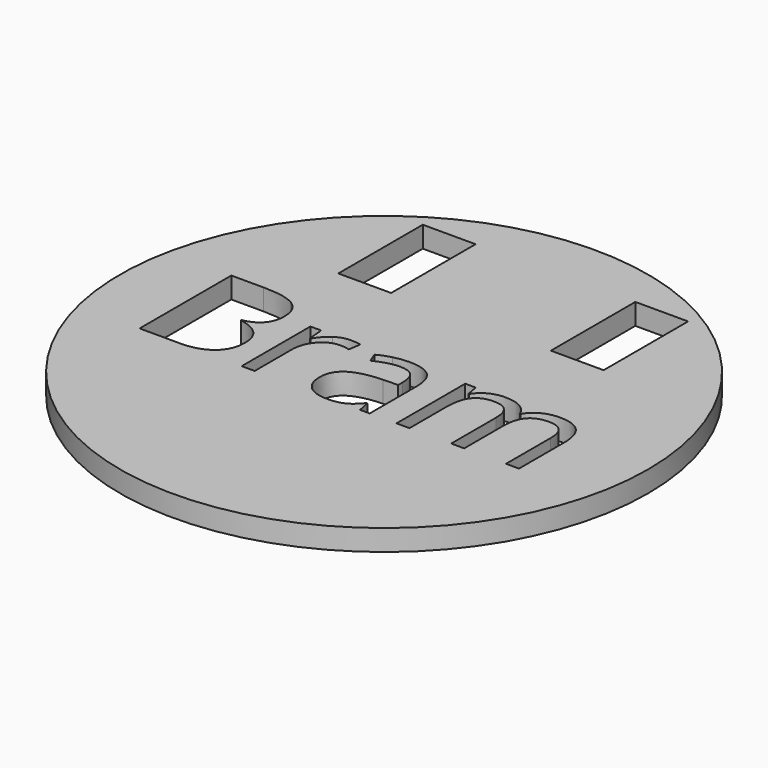
from build123d import *

# Parameters (mm, degrees)
F0_R     = 25
F0_W     = 5
F0_H     = 10
F1_DEPTH = 2


with BuildPart() as f1:
    # F0 (on Top) → F1 (new body)
    with BuildSketch(Plane.XY):
        Circle(F0_R)
        with BuildLine():
            Line((-18.475540486, -5.8509828523), (-18.475540486, 5.0045425299))
            Line((-18.475540486, 5.0045425299), (-15.4082427691, 5.0045425299))
            add(Edge.make_bspline(
                [(-15.4082427691, 5.0045425299), (-13.2485420529, 5.0045425299), (-12.2827352969, 4.3582954509)],
                knots=[0, 0, 0, 1, 1, 1], degree=2))
            add(Edge.make_bspline(
                [(-12.2827352969, 4.3582954509), (-11.316928541, 3.7120483719), (-11.316928541, 2.3173901536)],
                knots=[0, 0, 0, 1, 1, 1], degree=2))
            add(Edge.make_bspline(
                [(-11.316928541, 2.3173901536), (-11.316928541, 1.3503954435), (-11.8550717888, 0.7231556315)],
                knots=[0, 0, 0, 1, 1, 1], degree=2))
            add(Edge.make_bspline(
                [(-11.8550717888, 0.7231556315), (-12.3932150366, 0.0959158196), (-13.4267351813, -0.089405034)],
                knots=[0, 0, 0, 1, 1, 1], degree=2))
            Line((-13.4267351813, -0.089405034), (-13.4267351813, -0.1630581937))
            add(Edge.make_bspline(
                [(-13.4267351813, -0.1630581937), (-10.9534145591, -0.5859698851), (-10.9534145591, -2.76230196)],
                knots=[0, 0, 0, 1, 1, 1], degree=2))
            add(Edge.make_bspline(
                [(-10.9534145591, -2.76230196), (-10.9534145591, -4.2163578877), (-11.9370406278, -5.03367037)],
                knots=[0, 0, 0, 1, 1, 1], degree=2))
            add(Edge.make_bspline(
                [(-11.9370406278, -5.03367037), (-12.9206666966, -5.8509828523), (-14.6883425304, -5.8509828523)],
                knots=[0, 0, 0, 1, 1, 1], degree=2))
            Line((-14.6883425304, -5.8509828523), (-18.475540486, -5.8509828523))
        make_face(mode=Mode.SUBTRACT)
        with BuildLine():
            add(Edge.make_bspline(
                [(-6.4985863491, 2.0049582018), (-5.8594669952, 2.4361855726), (-5.0944244973, 2.4361855726)],
                knots=[0, 0, 0, 1, 1, 1], degree=2))
            add(Edge.make_bspline(
                [(-5.0944244973, 2.4361855726), (-4.5527173869, 2.4361855726), (-4.1226779704, 2.3459010542)],
                knots=[0, 0, 0, 1, 1, 1], degree=2))
            Line((-4.1226779704, 2.3459010542), (-4.2937433736, 1.203089124))
            add(Edge.make_bspline(
                [(-4.2937433736, 1.203089124), (-4.7974359499, 1.3147568178), (-5.1847090156, 1.3147568178)],
                knots=[0, 0, 0, 1, 1, 1], degree=2))
            add(Edge.make_bspline(
                [(-5.1847090156, 1.3147568178), (-6.1730869012, 1.3147568178), (-6.8739798729, 0.51288774)],
                knots=[0, 0, 0, 1, 1, 1], degree=2))
            add(Edge.make_bspline(
                [(-6.8739798729, 0.51288774), (-7.5748728446, -0.2889813378), (-7.5748728446, -1.4840632523)],
                knots=[0, 0, 0, 1, 1, 1], degree=2))
            Line((-7.5748728446, -1.4840632523), (-7.5748728446, -5.8509828523))
            Line((-7.5748728446, -5.8509828523), (-8.8079692931, -5.8509828523))
            Line((-8.8079692931, -5.8509828523), (-8.8079692931, 2.2865033447))
            Line((-8.8079692931, 2.2865033447), (-7.7910805071, 2.2865033447))
            Line((-7.7910805071, 2.2865033447), (-7.6485260043, 0.7801774326))
            Line((-7.6485260043, 0.7801774326), (-7.5891282949, 0.7801774326))
            add(Edge.make_bspline(
                [(-7.5891282949, 0.7801774326), (-7.1377057029, 1.5737308311), (-6.4985863491, 2.0049582018)],
                knots=[0, 0, 0, 1, 1, 1], degree=2))
        make_face(mode=Mode.SUBTRACT)
        with BuildLine():
            Line((3.3186670717, -5.8509828523), (2.4039423459, -5.8509828523))
            Line((2.4039423459, -5.8509828523), (2.1592237829, -4.6915395635))
            Line((2.1592237829, -4.6915395635), (2.0998260734, -4.6915395635))
            add(Edge.make_bspline(
                [(2.0998260734, -4.6915395635), (1.4915935284, -5.4565820614), (0.8869248461, -5.7286235708)],
                knots=[0, 0, 0, 1, 1, 1], degree=2))
            add(Edge.make_bspline(
                [(0.8869248461, -5.7286235708), (0.2822561637, -6.0006650801), (-0.625340837, -6.0006650801)],
                knots=[0, 0, 0, 1, 1, 1], degree=2))
            add(Edge.make_bspline(
                [(-0.625340837, -6.0006650801), (-1.8346782017, -6.0006650801), (-2.5213157231, -5.3758011765)],
                knots=[0, 0, 0, 1, 1, 1], degree=2))
            add(Edge.make_bspline(
                [(-2.5213157231, -5.3758011765), (-3.2079532446, -4.750937273), (-3.2079532446, -3.6009976177)],
                knots=[0, 0, 0, 1, 1, 1], degree=2))
            add(Edge.make_bspline(
                [(-3.2079532446, -3.6009976177), (-3.2079532446, -1.137180629), (0.7336787556, -1.01838521)],
                knots=[0, 0, 0, 1, 1, 1], degree=2))
            Line((0.7336787556, -1.01838521), (2.1140815237, -0.9732429509))
            Line((2.1140815237, -0.9732429509), (2.1140815237, -0.4671744662))
            add(Edge.make_bspline(
                [(2.1140815237, -0.4671744662), (2.1140815237, 0.4903166104), (1.7030493742, 0.9464910191)],
                knots=[0, 0, 0, 1, 1, 1], degree=2))
            add(Edge.make_bspline(
                [(1.7030493742, 0.9464910191), (1.2920172246, 1.4026654278), (0.384420224, 1.4026654278)],
                knots=[0, 0, 0, 1, 1, 1], degree=2))
            add(Edge.make_bspline(
                [(0.384420224, 1.4026654278), (-0.6324685621, 1.4026654278), (-1.9154590866, 0.7801774326)],
                knots=[0, 0, 0, 1, 1, 1], degree=2))
            Line((-1.9154590866, 0.7801774326), (-2.2956044272, 1.723413059))
            add(Edge.make_bspline(
                [(-2.2956044272, 1.723413059), (-1.6944996074, 2.0489125068), (-0.9781632312, 2.2342333604)],
                knots=[0, 0, 0, 1, 1, 1], degree=2))
            add(Edge.make_bspline(
                [(-0.9781632312, 2.2342333604), (-0.261826855, 2.4195542139), (0.4604492921, 2.4195542139)],
                knots=[0, 0, 0, 1, 1, 1], degree=2))
            add(Edge.make_bspline(
                [(0.4604492921, 2.4195542139), (1.9145052199, 2.4195542139), (2.6165861458, 1.7744950891)],
                knots=[0, 0, 0, 1, 1, 1], degree=2))
            add(Edge.make_bspline(
                [(2.6165861458, 1.7744950891), (3.3186670717, 1.1294359643), (3.3186670717, -0.2961090629)],
                knots=[0, 0, 0, 1, 1, 1], degree=2))
            Line((3.3186670717, -0.2961090629), (3.3186670717, -5.8509828523))
        make_face(mode=Mode.SUBTRACT)
        with BuildLine():
            Line((17.4600737416, -5.8509828523), (16.2293532014, -5.8509828523))
            Line((16.2293532014, -5.8509828523), (16.2293532014, -0.5574589846))
            add(Edge.make_bspline(
                [(16.2293532014, -0.5574589846), (16.2293532014, 0.4166634507), (15.8135692351, 0.9025367141)],
                knots=[0, 0, 0, 1, 1, 1], degree=2))
            add(Edge.make_bspline(
                [(15.8135692351, 0.9025367141), (15.3977852689, 1.3884099776), (14.5210750771, 1.3884099776)],
                knots=[0, 0, 0, 1, 1, 1], degree=2))
            add(Edge.make_bspline(
                [(14.5210750771, 1.3884099776), (13.3711354218, 1.3884099776), (12.8211126322, 0.7279074483)],
                knots=[0, 0, 0, 1, 1, 1], degree=2))
            add(Edge.make_bspline(
                [(12.8211126322, 0.7279074483), (12.2710898425, 0.067404919), (12.2710898425, -1.3058701239)],
                knots=[0, 0, 0, 1, 1, 1], degree=2))
            Line((12.2710898425, -1.3058701239), (12.2710898425, -5.8509828523))
            Line((12.2710898425, -5.8509828523), (11.037993394, -5.8509828523))
            Line((11.037993394, -5.8509828523), (11.037993394, -0.5574589846))
            add(Edge.make_bspline(
                [(11.037993394, -0.5574589846), (11.037993394, 0.4166634507), (10.6222094277, 0.9025367141)],
                knots=[0, 0, 0, 1, 1, 1], degree=2))
            add(Edge.make_bspline(
                [(10.6222094277, 0.9025367141), (10.2064254614, 1.3884099776), (9.3225875446, 1.3884099776)],
                knots=[0, 0, 0, 1, 1, 1], degree=2))
            add(Edge.make_bspline(
                [(9.3225875446, 1.3884099776), (8.1655201642, 1.3884099776), (7.6273769164, 0.694644731)],
                knots=[0, 0, 0, 1, 1, 1], degree=2))
            add(Edge.make_bspline(
                [(7.6273769164, 0.694644731), (7.0892336686, 0.0008794844), (7.0892336686, -1.5814754958)],
                knots=[0, 0, 0, 1, 1, 1], degree=2))
            Line((7.0892336686, -1.5814754958), (7.0892336686, -5.8509828523))
            Line((7.0892336686, -5.8509828523), (5.8561372201, -5.8509828523))
            Line((5.8561372201, -5.8509828523), (5.8561372201, 2.2865033447))
            Line((5.8561372201, 2.2865033447), (6.8587705559, 2.2865033447))
            Line((6.8587705559, 2.2865033447), (7.0583468597, 1.1722023151))
            Line((7.0583468597, 1.1722023151), (7.1177445692, 1.1722023151))
            add(Edge.make_bspline(
                [(7.1177445692, 1.1722023151), (7.4670031008, 1.7661794098), (8.1025585921, 2.1011824912)],
                knots=[0, 0, 0, 1, 1, 1], degree=2))
            add(Edge.make_bspline(
                [(8.1025585921, 2.1011824912), (8.7381140834, 2.4361855726), (9.5245397568, 2.4361855726)],
                knots=[0, 0, 0, 1, 1, 1], degree=2))
            add(Edge.make_bspline(
                [(9.5245397568, 2.4361855726), (11.4323941848, 2.4361855726), (12.0192435544, 1.0534068962)],
                knots=[0, 0, 0, 1, 1, 1], degree=2))
            Line((12.0192435544, 1.0534068962), (12.0786412638, 1.0534068962))
            add(Edge.make_bspline(
                [(12.0786412638, 1.0534068962), (12.4421552458, 1.69252625), (13.1323566298, 2.0643559113)],
                knots=[0, 0, 0, 1, 1, 1], degree=2))
            add(Edge.make_bspline(
                [(13.1323566298, 2.0643559113), (13.8225580138, 2.4361855726), (14.7063959307, 2.4361855726)],
                knots=[0, 0, 0, 1, 1, 1], degree=2))
            add(Edge.make_bspline(
                [(14.7063959307, 2.4361855726), (16.0867986987, 2.4361855726), (16.7734362201, 1.7269769215)],
                knots=[0, 0, 0, 1, 1, 1], degree=2))
            add(Edge.make_bspline(
                [(16.7734362201, 1.7269769215), (17.4600737416, 1.0177682705), (17.4600737416, -0.5432035343)],
                knots=[0, 0, 0, 1, 1, 1], degree=2))
            Line((17.4600737416, -0.5432035343), (17.4600737416, -5.8509828523))
        make_face(mode=Mode.SUBTRACT)
        with Locations((-10, 15.2066518739)):
            Rectangle(F0_W, F0_H, mode=Mode.SUBTRACT)
        with Locations((10, 15.3693027049)):
            Rectangle(F0_W, F0_H, mode=Mode.SUBTRACT)
    extrude(amount=F1_DEPTH)


solid = f1.part
